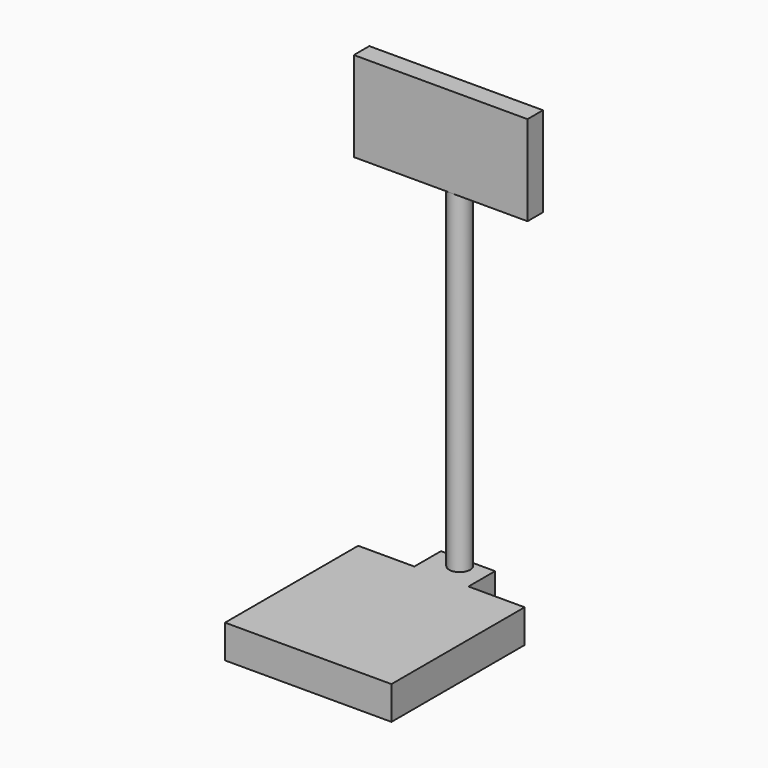
from build123d import *

# Parameters (mm, degrees)
F0_W     = 500
F0_H     = 500
F1_DEPTH = 100
F2_W     = 162.6115292311
F2_H     = 100
F3_DEPTH = 100
F4_R     = 31.4900843507
F5_DEPTH = 1000
F6_W     = 292.6908135414
F6_H     = 58.0843091011
F7_DEPTH = 270
F8_DEPTH = 145
F9_DEPTH = 84


with BuildPart() as f1:
    # F0 (on Top) → F1 (new body)
    with BuildSketch(Plane.XY):
        Rectangle(F0_W, F0_H)
    extrude(amount=F1_DEPTH)

    # F2 (on face) → F3 (join)
    with BuildSketch(Plane(origin=(0, 250, 0), x_dir=(-1, 0, 0), z_dir=(0, 1, 0))):
        with Locations((0, 50)):
            Rectangle(F2_W, F2_H)
    extrude(amount=F3_DEPTH)


with BuildPart() as f5:
    # F4 (on face) → F5 (new body)
    with BuildSketch(Plane.XY.offset(100)):
        with Locations((0, 318.5099156493)):
            Circle(F4_R)
    extrude(amount=F5_DEPTH)

    # F6 (on face) → F7 (join)
    with BuildSketch(Plane.XY.offset(1100)):
        with Locations((0, 314.4339323044)):
            Rectangle(F6_W, F6_H)
    extrude(amount=F7_DEPTH)

    # F8 (add): a face of the model
    f8_faces = [f5.faces().sort_by_distance(p)[0] for p in [
        (-146.3454067707, 314.4339323044, 1235),
    ]]
    extrude(f8_faces, amount=F8_DEPTH)

    # F9 (add): a face of the model
    f9_faces = [f5.faces().sort_by_distance(p)[0] for p in [
        (146.3454067707, 314.4339323044, 1235),
    ]]
    extrude(f9_faces, amount=F9_DEPTH)


solid = Compound([f1.part, f5.part])
